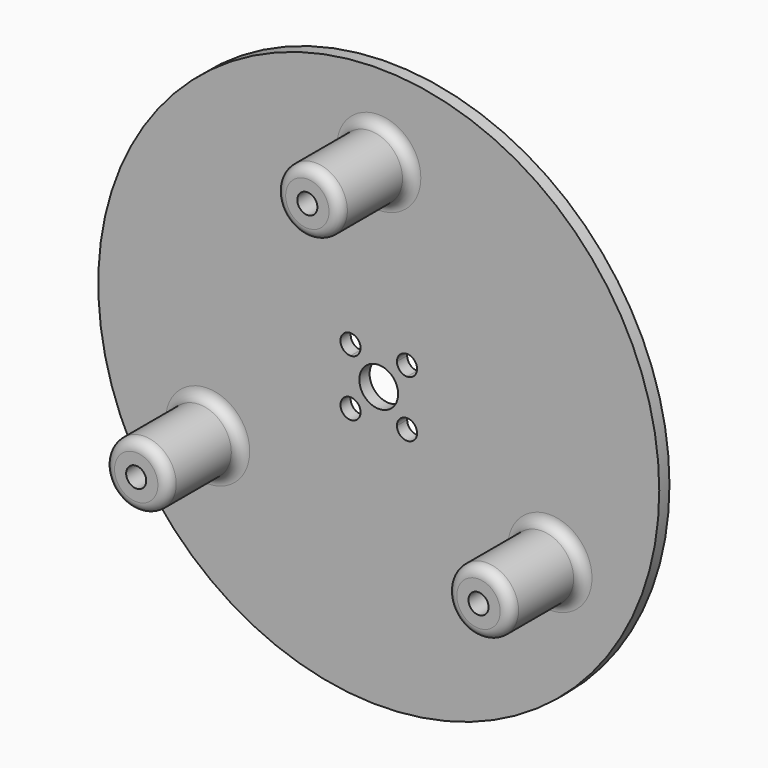
from build123d import *

# Parameters (mm, degrees)
F0_R     = 69.85
F0_R_2   = 4.826
F1_DEPTH = 3.175
F2_R     = 7.9375
F2_R_2   = 2.5
F3_DEPTH = 22.225
F4_R     = 2.54


with BuildPart() as f1:
    # F0 (on Front) → F1 (new body)
    with BuildSketch(Plane.XZ):
        Circle(F0_R)
        with BuildLine():
            ThreePointArc((2.4991934167, 49.148999873), (35.6711487919, 33.9033818389), (49.2125, 0))
            ThreePointArc((49.2125, 0), (47.8438119554, -11.5256155508), (43.8138791689, -22.4101349487))
            ThreePointArc((43.8138791689, -22.4101349487), (44.7682877434, -23.3288522473), (45.1192751837, -24.60625))
            ThreePointArc((45.1192751837, -24.60625), (43.8416757771, -26.7870151844), (41.3146857523, -26.7388649243))
            ThreePointArc((41.3146857523, -26.7388649243), (0, -49.2125), (-41.3146857523, -26.7388649243))
            ThreePointArc((-41.3146857523, -26.7388649243), (-44.7843386932, -25.85625), (-43.8138791689, -22.4101349487))
            ThreePointArc((-43.8138791689, -22.4101349487), (-42.6192751837, 24.60625), (-2.4991934167, 49.148999873))
            ThreePointArc((-2.4991934167, 49.148999873), (-0.0317526247, 51.712298346), (2.5, 49.2125))
            ThreePointArc((2.5, 49.2125), (2.499798346, 49.1807473753), (2.4991934167, 49.148999873))
        make_face(mode=Mode.SUBTRACT)
        with BuildLine():
            ThreePointArc((43.8138791689, -22.4101349487), (47.8438119554, -11.5256155508), (49.2125, 0))
            ThreePointArc((49.2125, 0), (35.6711487919, 33.9033818389), (2.4991934167, 49.148999873))
            ThreePointArc((2.4991934167, 49.148999873), (0, 46.7125), (-2.4991934167, 49.148999873))
            ThreePointArc((-2.4991934167, 49.148999873), (-42.6192751837, 24.60625), (-43.8138791689, -22.4101349487))
            ThreePointArc((-43.8138791689, -22.4101349487), (-41.3418774311, -22.4572374404), (-40.1192751837, -24.60625))
            ThreePointArc((-40.1192751837, -24.60625), (-40.4385099994, -25.8286505934), (-41.3146857523, -26.7388649243))
            ThreePointArc((-41.3146857523, -26.7388649243), (0, -49.2125), (41.3146857523, -26.7388649243))
            ThreePointArc((41.3146857523, -26.7388649243), (40.4542116743, -23.35625), (43.8138791689, -22.4101349487))
        make_face()
        with BuildLine():
            ThreePointArc((-7.0358, 4.5358), (-8.803566953, 8.803566953), (-4.5358, 7.0358))
            Line((-4.5358, 7.0358), (4.5358, 7.0358))
            ThreePointArc((4.5358, 7.0358), (7.0358, 9.5358), (9.5358, 7.0358))
            ThreePointArc((9.5358, 7.0358), (8.803566953, 5.268033047), (7.0358, 4.5358))
            Line((7.0358, 4.5358), (7.0358, -4.5358))
            ThreePointArc((7.0358, -4.5358), (8.803566953, -5.268033047), (9.5358, -7.0358))
            ThreePointArc((9.5358, -7.0358), (7.0358, -9.5358), (4.5358, -7.0358))
            Line((4.5358, -7.0358), (-4.5358, -7.0358))
            ThreePointArc((-4.5358, -7.0358), (-8.803566953, -8.803566953), (-7.0358, -4.5358))
            Line((-7.0358, -4.5358), (-7.0358, 4.5358))
        make_face(mode=Mode.SUBTRACT)
        with BuildLine():
            Line((4.5358, 7.0358), (-4.5358, 7.0358))
            ThreePointArc((-4.5358, 7.0358), (-5.268033047, 5.268033047), (-7.0358, 4.5358))
            Line((-7.0358, 4.5358), (-7.0358, -4.5358))
            ThreePointArc((-7.0358, -4.5358), (-5.268033047, -5.268033047), (-4.5358, -7.0358))
            Line((-4.5358, -7.0358), (4.5358, -7.0358))
            ThreePointArc((4.5358, -7.0358), (5.268033047, -5.268033047), (7.0358, -4.5358))
            Line((7.0358, -4.5358), (7.0358, 4.5358))
            ThreePointArc((7.0358, 4.5358), (5.268033047, 5.268033047), (4.5358, 7.0358))
        make_face()
        Circle(F0_R_2, mode=Mode.SUBTRACT)
    extrude(amount=F1_DEPTH)

    # F2 (on face) → F3 (join)
    with BuildSketch(Plane.XZ.offset(3.175)):
        with Locations((0, 49.2125)):
            Circle(F2_R)
        with Locations((0, 49.2125)):
            Circle(F2_R_2, mode=Mode.SUBTRACT)
        with Locations((-42.6192751837, -24.60625)):
            Circle(F2_R)
        with Locations((-42.6192751837, -24.60625)):
            Circle(F2_R_2, mode=Mode.SUBTRACT)
        with Locations((42.6192751837, -24.60625)):
            Circle(F2_R)
        with Locations((42.6192751837, -24.60625)):
            Circle(F2_R_2, mode=Mode.SUBTRACT)
    extrude(amount=F3_DEPTH)

    # F4
    f4_edges = [f1.edges().sort_by_distance(p)[0] for p in [
        (-7.9375, -3.175, 49.2125),
        (34.681775, -3.175, -24.60625),
        (-50.556775, -3.175, -24.60625),
        (-7.9375, -25.4, 49.2125),
        (34.681775, -25.4, -24.60625),
        (-50.556775, -25.4, -24.60625),
    ]]
    fillet(f4_edges, radius=F4_R)


solid = f1.part
